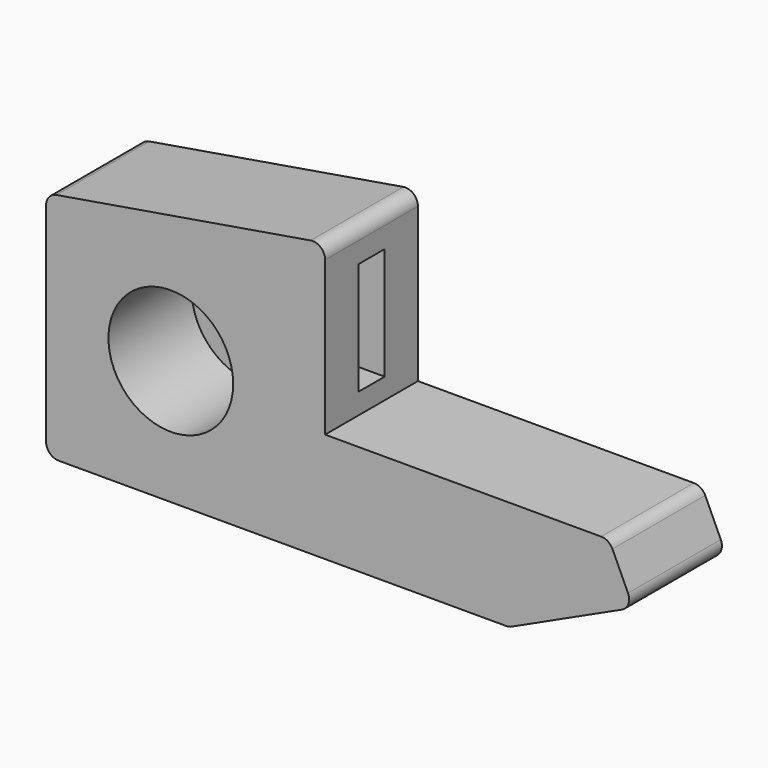
from build123d import *

# Parameters (mm, degrees)
F1_DEPTH = 27.9
F2_R     = 15
F3_DEPTH = 25
F4_R     = 3
F5_W     = 7.9
F5_H     = 27.016579
F6_DEPTH = 31.8


with BuildPart() as f1:
    # F0 (on Front) → F1 (new body)
    with BuildSketch(Plane.XZ):
        Polygon((15.517242, 43.836206), (-51.594831, 32.586209), (-51.594831, -23.081899), (59.741382, -23.081899), (89.612074, -9.310345), (83.809795, 3.274879), (15.517242, 3.274879), align=None)
    extrude(amount=F1_DEPTH)

    # F2 (on face) → F3 (cut)
    with BuildSketch(Plane.XZ.offset(27.9)):
        with Locations((-21.594828, 6.788793)):
            Circle(F2_R)
    extrude(amount=-F3_DEPTH, mode=Mode.SUBTRACT)

    # F4
    f4_edges = [f1.edges().sort_by_distance(p)[0] for p in [
        (15.517242, -13.95, 43.836206),
        (83.809795, -13.95, 3.274879),
        (89.612074, -13.95, -9.310345),
        (59.741382, -13.95, -23.081899),
        (-51.594831, -13.95, -23.081899),
        (-51.594831, -13.95, 32.586209),
    ]]
    fillet(f4_edges, radius=F4_R)

    # F5 (on face) → F6 (cut)
    with BuildSketch(Plane.YZ.offset(15.517242)):
        with Locations((-13.95, 21.783168)):
            Rectangle(F5_W, F5_H)
    extrude(amount=-F6_DEPTH, mode=Mode.SUBTRACT)


solid = f1.part
